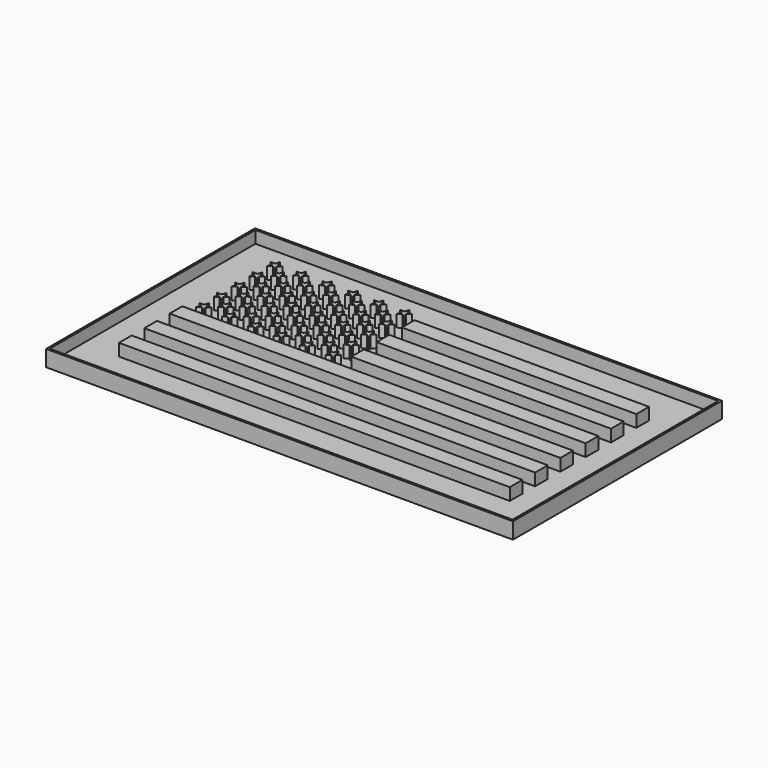
from build123d import *

# Parameters (mm, degrees)
F0_W     = 28.956
F0_H     = 1.95326
F0_W_2   = 48.26
F1_DEPTH = 2
F2_W     = 57.658
F2_H     = 32.258
F2_W_2   = 57.15
F2_H_2   = 31.75
F3_DEPTH = 2
F4_W     = 57.15
F4_H     = 31.75
F5_DEPTH = 0.5


with BuildPart() as f1:
    # F0 (on Top) → F1 (new body)
    with BuildSketch(Plane.XY):
        Polygon((-22.353018, 11.57172), (-22.5298, 12.1158), (-22.706582, 11.57172), (-23.278662, 11.57172), (-22.81584, 11.23546), (-22.992622, 10.69138), (-22.5298, 11.02764), (-22.066978, 10.69138), (-22.24376, 11.23546), (-21.780938, 11.57172), align=None)
        Polygon((-22.353018, 8.82852), (-22.5298, 9.3726), (-22.706582, 8.82852), (-23.278662, 8.82852), (-22.81584, 8.49226), (-22.992622, 7.94818), (-22.5298, 8.28444), (-22.066978, 7.94818), (-22.24376, 8.49226), (-21.780938, 8.82852), align=None)
        Polygon((-20.752247, 10.200905), (-20.9296, 10.74674), (-21.106953, 10.200905), (-21.680878, 10.200905), (-21.216563, 9.86356), (-21.393915, 9.317725), (-20.9296, 9.65507), (-20.465285, 9.317725), (-20.642637, 9.86356), (-20.178322, 10.200905), align=None)
        Polygon((-19.152618, 11.57172), (-19.3294, 12.1158), (-19.506182, 11.57172), (-20.078262, 11.57172), (-19.61544, 11.23546), (-19.792222, 10.69138), (-19.3294, 11.02764), (-18.866578, 10.69138), (-19.04336, 11.23546), (-18.580538, 11.57172), align=None)
        Polygon((-15.952218, 11.57172), (-16.129, 12.1158), (-16.305782, 11.57172), (-16.877862, 11.57172), (-16.41504, 11.23546), (-16.591822, 10.69138), (-16.129, 11.02764), (-15.666178, 10.69138), (-15.84296, 11.23546), (-15.380138, 11.57172), align=None)
        Polygon((-22.353018, 6.08532), (-22.5298, 6.6294), (-22.706582, 6.08532), (-23.278662, 6.08532), (-22.81584, 5.74906), (-22.992622, 5.20498), (-22.5298, 5.54124), (-22.066978, 5.20498), (-22.24376, 5.74906), (-21.780938, 6.08532), align=None)
        Polygon((-20.752247, 7.457705), (-20.9296, 8.00354), (-21.106953, 7.457705), (-21.680878, 7.457705), (-21.216563, 7.12036), (-21.393915, 6.574525), (-20.9296, 6.91187), (-20.465285, 6.574525), (-20.642637, 7.12036), (-20.178322, 7.457705), align=None)
        Polygon((-19.152618, 8.82852), (-19.3294, 9.3726), (-19.506182, 8.82852), (-20.078262, 8.82852), (-19.61544, 8.49226), (-19.792222, 7.94818), (-19.3294, 8.28444), (-18.866578, 7.94818), (-19.04336, 8.49226), (-18.580538, 8.82852), align=None)
        Polygon((-17.551847, 10.200905), (-17.7292, 10.74674), (-17.906553, 10.200905), (-18.480478, 10.200905), (-18.016163, 9.86356), (-18.193515, 9.317725), (-17.7292, 9.65507), (-17.264885, 9.317725), (-17.442237, 9.86356), (-16.977922, 10.200905), align=None)
        Polygon((-12.751818, 11.57172), (-12.9286, 12.1158), (-13.105382, 11.57172), (-13.677462, 11.57172), (-13.21464, 11.23546), (-13.391422, 10.69138), (-12.9286, 11.02764), (-12.465778, 10.69138), (-12.64256, 11.23546), (-12.179738, 11.57172), align=None)
        Polygon((-14.351447, 10.200905), (-14.5288, 10.74674), (-14.706153, 10.200905), (-15.280078, 10.200905), (-14.815763, 9.86356), (-14.993115, 9.317725), (-14.5288, 9.65507), (-14.064485, 9.317725), (-14.241837, 9.86356), (-13.777522, 10.200905), align=None)
        Polygon((-15.952218, 8.82852), (-16.129, 9.3726), (-16.305782, 8.82852), (-16.877862, 8.82852), (-16.41504, 8.49226), (-16.591822, 7.94818), (-16.129, 8.28444), (-15.666178, 7.94818), (-15.84296, 8.49226), (-15.380138, 8.82852), align=None)
        Polygon((-17.551847, 7.457705), (-17.7292, 8.00354), (-17.906553, 7.457705), (-18.480478, 7.457705), (-18.016163, 7.12036), (-18.193515, 6.574525), (-17.7292, 6.91187), (-17.264885, 6.574525), (-17.442237, 7.12036), (-16.977922, 7.457705), align=None)
        Polygon((-19.152618, 6.08532), (-19.3294, 6.6294), (-19.506182, 6.08532), (-20.078262, 6.08532), (-19.61544, 5.74906), (-19.792222, 5.20498), (-19.3294, 5.54124), (-18.866578, 5.20498), (-19.04336, 5.74906), (-18.580538, 6.08532), align=None)
        Polygon((-20.752247, 4.714505), (-20.9296, 5.26034), (-21.106953, 4.714505), (-21.680878, 4.714505), (-21.216563, 4.37716), (-21.393915, 3.831325), (-20.9296, 4.16867), (-20.465285, 3.831325), (-20.642637, 4.37716), (-20.178322, 4.714505), align=None)
        Polygon((-22.353018, 3.34212), (-22.5298, 3.8862), (-22.706582, 3.34212), (-23.278662, 3.34212), (-22.81584, 3.00586), (-22.992622, 2.46178), (-22.5298, 2.79804), (-22.066978, 2.46178), (-22.24376, 3.00586), (-21.780938, 3.34212), align=None)
        Polygon((-22.353018, 0.59892), (-22.5298, 1.143), (-22.706582, 0.59892), (-23.278662, 0.59892), (-22.81584, 0.26266), (-22.992622, -0.28142), (-22.5298, 0.05484), (-22.066978, -0.28142), (-22.24376, 0.26266), (-21.780938, 0.59892), align=None)
        Polygon((-20.752247, 1.971305), (-20.9296, 2.51714), (-21.106953, 1.971305), (-21.680878, 1.971305), (-21.216563, 1.63396), (-21.393915, 1.088125), (-20.9296, 1.42547), (-20.465285, 1.088125), (-20.642637, 1.63396), (-20.178322, 1.971305), align=None)
        Polygon((-19.152618, 3.34212), (-19.3294, 3.8862), (-19.506182, 3.34212), (-20.078262, 3.34212), (-19.61544, 3.00586), (-19.792222, 2.46178), (-19.3294, 2.79804), (-18.866578, 2.46178), (-19.04336, 3.00586), (-18.580538, 3.34212), align=None)
        Polygon((-17.551847, 4.714505), (-17.7292, 5.26034), (-17.906553, 4.714505), (-18.480478, 4.714505), (-18.016163, 4.37716), (-18.193515, 3.831325), (-17.7292, 4.16867), (-17.264885, 3.831325), (-17.442237, 4.37716), (-16.977922, 4.714505), align=None)
        Polygon((-15.952218, 6.08532), (-16.129, 6.6294), (-16.305782, 6.08532), (-16.877862, 6.08532), (-16.41504, 5.74906), (-16.591822, 5.20498), (-16.129, 5.54124), (-15.666178, 5.20498), (-15.84296, 5.74906), (-15.380138, 6.08532), align=None)
        Polygon((-14.351447, 7.457705), (-14.5288, 8.00354), (-14.706153, 7.457705), (-15.280078, 7.457705), (-14.815763, 7.12036), (-14.993115, 6.574525), (-14.5288, 6.91187), (-14.064485, 6.574525), (-14.241837, 7.12036), (-13.777522, 7.457705), align=None)
        Polygon((-12.751818, 8.82852), (-12.9286, 9.3726), (-13.105382, 8.82852), (-13.677462, 8.82852), (-13.21464, 8.49226), (-13.391422, 7.94818), (-12.9286, 8.28444), (-12.465778, 7.94818), (-12.64256, 8.49226), (-12.179738, 8.82852), align=None)
        Polygon((-11.151047, 10.200905), (-11.3284, 10.74674), (-11.505753, 10.200905), (-12.079678, 10.200905), (-11.615363, 9.86356), (-11.792715, 9.317725), (-11.3284, 9.65507), (-10.864085, 9.317725), (-11.041437, 9.86356), (-10.577122, 10.200905), align=None)
        Polygon((-9.551418, 11.57172), (-9.7282, 12.1158), (-9.904982, 11.57172), (-10.477062, 11.57172), (-10.01424, 11.23546), (-10.191022, 10.69138), (-9.7282, 11.02764), (-9.265378, 10.69138), (-9.44216, 11.23546), (-8.979338, 11.57172), align=None)
        Polygon((-6.351018, 11.57172), (-6.5278, 12.1158), (-6.704582, 11.57172), (-7.276662, 11.57172), (-6.81384, 11.23546), (-6.990622, 10.69138), (-6.5278, 11.02764), (-6.064978, 10.69138), (-6.24176, 11.23546), (-5.778938, 11.57172), align=None)
        Polygon((-7.950647, 10.200905), (-8.128, 10.74674), (-8.305353, 10.200905), (-8.879278, 10.200905), (-8.414963, 9.86356), (-8.592315, 9.317725), (-8.128, 9.65507), (-7.663685, 9.317725), (-7.841037, 9.86356), (-7.376722, 10.200905), align=None)
        Polygon((-9.551418, 8.82852), (-9.7282, 9.3726), (-9.904982, 8.82852), (-10.477062, 8.82852), (-10.01424, 8.49226), (-10.191022, 7.94818), (-9.7282, 8.28444), (-9.265378, 7.94818), (-9.44216, 8.49226), (-8.979338, 8.82852), align=None)
        Polygon((-11.151047, 7.457705), (-11.3284, 8.00354), (-11.505753, 7.457705), (-12.079678, 7.457705), (-11.615363, 7.12036), (-11.792715, 6.574525), (-11.3284, 6.91187), (-10.864085, 6.574525), (-11.041437, 7.12036), (-10.577122, 7.457705), align=None)
        Polygon((-12.751818, 6.08532), (-12.9286, 6.6294), (-13.105382, 6.08532), (-13.677462, 6.08532), (-13.21464, 5.74906), (-13.391422, 5.20498), (-12.9286, 5.54124), (-12.465778, 5.20498), (-12.64256, 5.74906), (-12.179738, 6.08532), align=None)
        Polygon((-14.351447, 4.714505), (-14.5288, 5.26034), (-14.706153, 4.714505), (-15.280078, 4.714505), (-14.815763, 4.37716), (-14.993115, 3.831325), (-14.5288, 4.16867), (-14.064485, 3.831325), (-14.241837, 4.37716), (-13.777522, 4.714505), align=None)
        Polygon((-15.952218, 3.34212), (-16.129, 3.8862), (-16.305782, 3.34212), (-16.877862, 3.34212), (-16.41504, 3.00586), (-16.591822, 2.46178), (-16.129, 2.79804), (-15.666178, 2.46178), (-15.84296, 3.00586), (-15.380138, 3.34212), align=None)
        Polygon((-17.551847, 1.971305), (-17.7292, 2.51714), (-17.906553, 1.971305), (-18.480478, 1.971305), (-18.016163, 1.63396), (-18.193515, 1.088125), (-17.7292, 1.42547), (-17.264885, 1.088125), (-17.442237, 1.63396), (-16.977922, 1.971305), align=None)
        Polygon((-19.152618, 0.59892), (-19.3294, 1.143), (-19.506182, 0.59892), (-20.078262, 0.59892), (-19.61544, 0.26266), (-19.792222, -0.28142), (-19.3294, 0.05484), (-18.866578, -0.28142), (-19.04336, 0.26266), (-18.580538, 0.59892), align=None)
        Polygon((-15.952218, 0.59892), (-16.129, 1.143), (-16.305782, 0.59892), (-16.877862, 0.59892), (-16.41504, 0.26266), (-16.591822, -0.28142), (-16.129, 0.05484), (-15.666178, -0.28142), (-15.84296, 0.26266), (-15.380138, 0.59892), align=None)
        Polygon((-14.351447, 1.971305), (-14.5288, 2.51714), (-14.706153, 1.971305), (-15.280078, 1.971305), (-14.815763, 1.63396), (-14.993115, 1.088125), (-14.5288, 1.42547), (-14.064485, 1.088125), (-14.241837, 1.63396), (-13.777522, 1.971305), align=None)
        Polygon((-12.751818, 3.34212), (-12.9286, 3.8862), (-13.105382, 3.34212), (-13.677462, 3.34212), (-13.21464, 3.00586), (-13.391422, 2.46178), (-12.9286, 2.79804), (-12.465778, 2.46178), (-12.64256, 3.00586), (-12.179738, 3.34212), align=None)
        Polygon((-11.151047, 4.714505), (-11.3284, 5.26034), (-11.505753, 4.714505), (-12.079678, 4.714505), (-11.615363, 4.37716), (-11.792715, 3.831325), (-11.3284, 4.16867), (-10.864085, 3.831325), (-11.041437, 4.37716), (-10.577122, 4.714505), align=None)
        Polygon((-9.551418, 6.08532), (-9.7282, 6.6294), (-9.904982, 6.08532), (-10.477062, 6.08532), (-10.01424, 5.74906), (-10.191022, 5.20498), (-9.7282, 5.54124), (-9.265378, 5.20498), (-9.44216, 5.74906), (-8.979338, 6.08532), align=None)
        Polygon((-7.950647, 7.457705), (-8.128, 8.00354), (-8.305353, 7.457705), (-8.879278, 7.457705), (-8.414963, 7.12036), (-8.592315, 6.574525), (-8.128, 6.91187), (-7.663685, 6.574525), (-7.841037, 7.12036), (-7.376722, 7.457705), align=None)
        Polygon((-7.950647, 4.714505), (-8.128, 5.26034), (-8.305353, 4.714505), (-8.879278, 4.714505), (-8.414963, 4.37716), (-8.592315, 3.831325), (-8.128, 4.16867), (-7.663685, 3.831325), (-7.841037, 4.37716), (-7.376722, 4.714505), align=None)
        Polygon((-9.551418, 3.34212), (-9.7282, 3.8862), (-9.904982, 3.34212), (-10.477062, 3.34212), (-10.01424, 3.00586), (-10.191022, 2.46178), (-9.7282, 2.79804), (-9.265378, 2.46178), (-9.44216, 3.00586), (-8.979338, 3.34212), align=None)
        Polygon((-11.151047, 1.971305), (-11.3284, 2.51714), (-11.505753, 1.971305), (-12.079678, 1.971305), (-11.615363, 1.63396), (-11.792715, 1.088125), (-11.3284, 1.42547), (-10.864085, 1.088125), (-11.041437, 1.63396), (-10.577122, 1.971305), align=None)
        Polygon((-12.751818, 0.59892), (-12.9286, 1.143), (-13.105382, 0.59892), (-13.677462, 0.59892), (-13.21464, 0.26266), (-13.391422, -0.28142), (-12.9286, 0.05484), (-12.465778, -0.28142), (-12.64256, 0.26266), (-12.179738, 0.59892), align=None)
        Polygon((-7.950647, 1.971305), (-8.128, 2.51714), (-8.305353, 1.971305), (-8.879278, 1.971305), (-8.414963, 1.63396), (-8.592315, 1.088125), (-8.128, 1.42547), (-7.663685, 1.088125), (-7.841037, 1.63396), (-7.376722, 1.971305), align=None)
        Polygon((-6.351018, 3.34212), (-6.5278, 3.8862), (-6.704582, 3.34212), (-7.276662, 3.34212), (-6.81384, 3.00586), (-6.990622, 2.46178), (-6.5278, 2.79804), (-6.064978, 2.46178), (-6.24176, 3.00586), (-5.778938, 3.34212), align=None)
        Polygon((-6.351018, 0.59892), (-6.5278, 1.143), (-6.704582, 0.59892), (-7.276662, 0.59892), (-6.81384, 0.26266), (-6.990622, -0.28142), (-6.5278, 0.05484), (-6.064978, -0.28142), (-6.24176, 0.26266), (-5.778938, 0.59892), align=None)
        Polygon((-9.551418, 0.59892), (-9.7282, 1.143), (-9.904982, 0.59892), (-10.477062, 0.59892), (-10.01424, 0.26266), (-10.191022, -0.28142), (-9.7282, 0.05484), (-9.265378, -0.28142), (-9.44216, 0.26266), (-8.979338, 0.59892), align=None)
        Polygon((-6.351018, 6.08532), (-6.5278, 6.6294), (-6.704582, 6.08532), (-7.276662, 6.08532), (-6.81384, 5.74906), (-6.990622, 5.20498), (-6.5278, 5.54124), (-6.064978, 5.20498), (-6.24176, 5.74906), (-5.778938, 6.08532), align=None)
        Polygon((-6.351018, 8.82852), (-6.5278, 9.3726), (-6.704582, 8.82852), (-7.276662, 8.82852), (-6.81384, 8.49226), (-6.990622, 7.94818), (-6.5278, 8.28444), (-6.064978, 7.94818), (-6.24176, 8.49226), (-5.778938, 8.82852), align=None)
        with Locations((9.652, 9.77011)):
            Rectangle(F0_W, F0_H)
        with Locations((9.652, 5.86359)):
            Rectangle(F0_W, F0_H)
        with Locations((9.652, 1.95707)):
            Rectangle(F0_W, F0_H)
        Polygon((-4.826, -0.9779), (-24.13, -0.9779), (-24.13, -2.93116), (24.13, -2.93116), (24.13, -0.9779), align=None)
        with Locations((0, -5.86105)):
            Rectangle(F0_W_2, F0_H)
        with Locations((0, -9.76757)):
            Rectangle(F0_W_2, F0_H)
    extrude(amount=F1_DEPTH)


with BuildPart() as f3:
    # F2 (on Top) → F3 (new body)
    with BuildSketch(Plane.XY):
        Rectangle(F2_W, F2_H)
        Rectangle(F2_W_2, F2_H_2, mode=Mode.SUBTRACT)
    extrude(amount=F3_DEPTH)


with BuildPart() as f5:
    # F4 (on Top) → F5 (new body)
    with BuildSketch(Plane.XY):
        Rectangle(F4_W, F4_H)
    extrude(amount=F5_DEPTH)


solid = Compound([f1.part, f3.part, f5.part])
